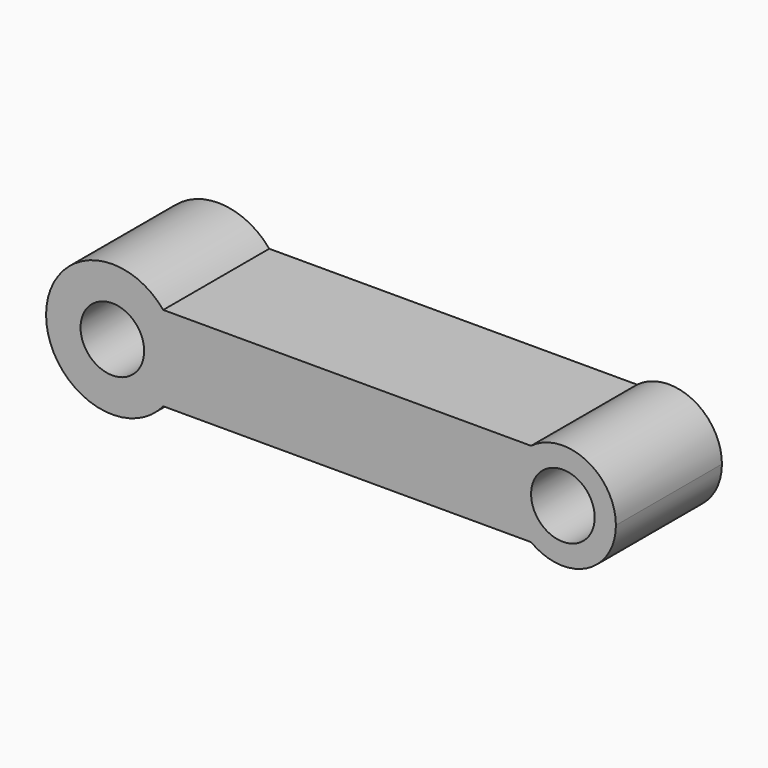
from build123d import *

# Parameters (mm, degrees)
F0_R     = 152.4
F1_DEPTH = 635


with BuildPart() as f1:
    # F0 (on Front) → F1 (new body)
    with BuildSketch(Plane.XZ):
        with BuildLine():
            ThreePointArc((243.959033, -203.2), (298.549195, -108.049195), (317.5, 0))
            ThreePointArc((317.5, 0), (298.549195, 108.049195), (243.959033, 203.2))
            ThreePointArc((243.959033, 203.2), (-317.5, 0), (243.959033, -203.2))
        make_face()
        Circle(F0_R, mode=Mode.SUBTRACT)
        with BuildLine():
            ThreePointArc((243.959033, 203.2), (298.549195, 108.049195), (317.5, 0))
            ThreePointArc((317.5, 0), (298.549195, -108.049195), (243.959033, -203.2))
            Line((243.959033, -203.2), (2006.6, -203.2))
            ThreePointArc((2006.6, -203.2), (1905, 0), (2006.6, 203.2))
            Line((2006.6, 203.2), (243.959033, 203.2))
        make_face()
        with BuildLine():
            ThreePointArc((2413, 0), (2272.592253, 227.184507), (2006.6, 203.2))
            ThreePointArc((2006.6, 203.2), (1905, 0), (2006.6, -203.2))
            ThreePointArc((2006.6, -203.2), (2272.592253, -227.184507), (2413, 0))
        make_face()
        with Locations((2159, 0)):
            Circle(F0_R, mode=Mode.SUBTRACT)
    extrude(amount=-F1_DEPTH)


solid = f1.part
